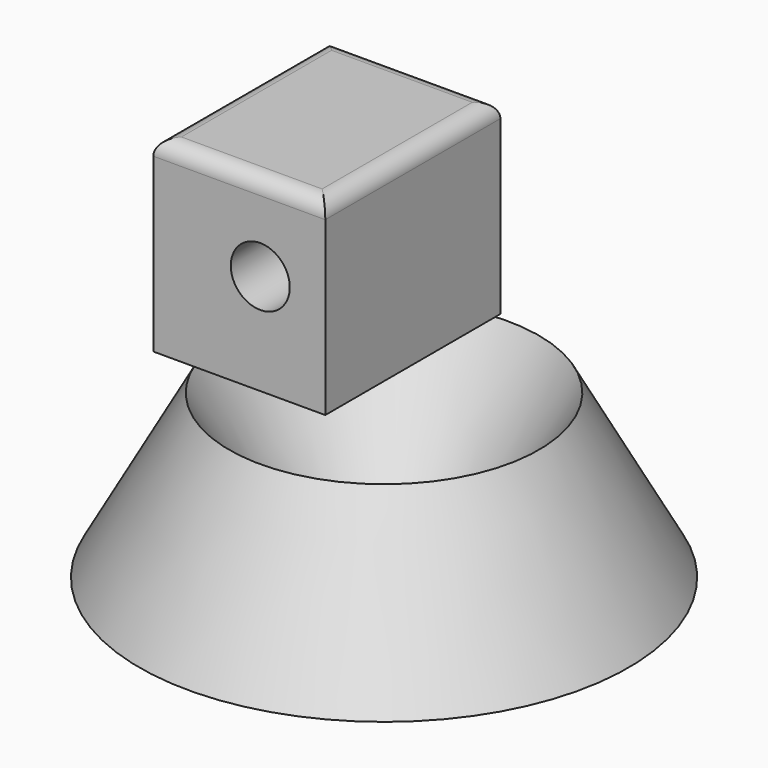
from build123d import *

# Parameters (mm, degrees)
F0_W     = 55
F0_H     = 70
F1_DEPTH = 60
F2_R     = 9.42751
F3_DEPTH = 90
F4_R     = 5


with BuildPart() as f1:
    # F0 (on Top) → F1 (new body)
    with BuildSketch(Plane.XY):
        with Locations((-26.50332, 10.264905)):
            Rectangle(F0_W, F0_H)
    extrude(amount=F1_DEPTH)

    # F2 (on face) → F3 (cut)
    with BuildSketch(Plane(origin=(0, 45.264905, 0), x_dir=(-1, 0, 0), z_dir=(0, 1, 0))):
        with Locations((19.791303, 32.247365)):
            Circle(F2_R)
    extrude(amount=-F3_DEPTH, mode=Mode.SUBTRACT)

    # F4
    f4_edges = [f1.edges().sort_by_distance(p)[0] for p in [
        (-26.50332, 45.264905, 60),
        (-54.00332, 10.264905, 60),
        (-26.50332, -24.735095, 60),
        (0.99668, 10.264905, 60),
    ]]
    fillet(f4_edges, radius=F4_R)


with BuildPart() as f6:
    # F5 (on Front) → F6 (revolve)
    with BuildSketch(Plane.XZ):
        Polygon((-18.843082, -54.889361), (-49.526865, -4.069341), (-78.196403, -56.052286), align=None)
    revolve(axis=Axis((0, 0, -36.606986), (0, 0, -1)))


solid = Compound([f1.part, f6.part])
